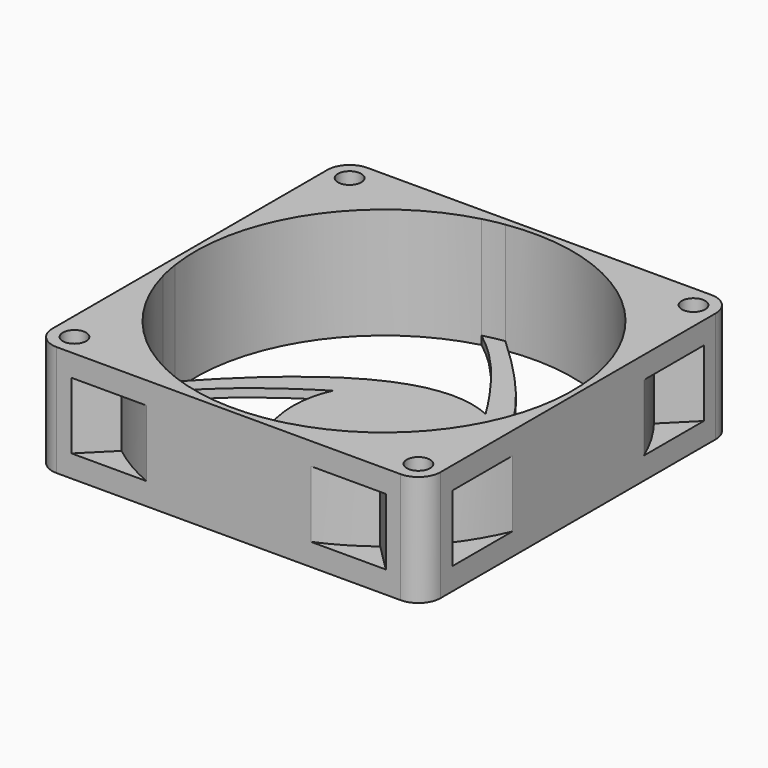
from build123d import *

# Parameters (mm, degrees)
SKETCH030_W           = 70
SKETCH030_H           = 70
SKETCH030_R           = 2.1
PAD019_DEPTH          = 10
POCKET014_DEPTH       = 221.9910987672
POLARPATTERN002_COUNT = 4
FILLET011_R           = 4
SKETCH032_R           = 34
POCKET018_DEPTH       = 18.5
POCKET017_DEPTH       = 6
POLARPATTERN003_COUNT = 4


with BuildPart() as part:
    # Sketch030 → Pad019 (new body, symmetric)
    with BuildSketch(Plane.XY):
        Rectangle(SKETCH030_W, SKETCH030_H)
        with Locations((-31, 31)):
            Circle(SKETCH030_R, mode=Mode.SUBTRACT)
        with Locations((31, 31)):
            Circle(SKETCH030_R, mode=Mode.SUBTRACT)
        with Locations((31, -31)):
            Circle(SKETCH030_R, mode=Mode.SUBTRACT)
        with Locations((-31, -31)):
            Circle(SKETCH030_R, mode=Mode.SUBTRACT)
    extrude(amount=PAD019_DEPTH, both=True)

    # Sketch029 (on Face10 of Pad019) → Pocket014 (cut, through all)
    with BuildSketch(Plane.XY.offset(10)):
        with BuildLine():
            ThreePointArc((-8.7274847969, 32.8607822354), (-28.4137092085, 18.6724698156), (-33.6262546007, -5.0274249403))
            add(Edge.make_bspline(
                [(6.6856437151, 14.5362363807), (-9.201321, 21.706085), (-33.6262546007, -5.0274249403)],
                knots=[0, 0, 0, 1, 1, 1], degree=2))
            add(Edge.make_bspline(
                [(6.6856437151, 14.5362363807), (-1.353872, 27.495132), (-8.7274847969, 32.8607822354)],
                knots=[0, 0, 0, 1, 1, 1], degree=2))
        make_face()
    pocket014 = extrude(amount=-POCKET014_DEPTH, mode=Mode.SUBTRACT)

    # PolarPattern002: Pocket014 ×4 about axis
    polarpattern002_axis = Axis((0, 0, 10), (0, 0, 1))
    for i in range(1, POLARPATTERN002_COUNT):
        add(pocket014.rotate(polarpattern002_axis, i * 360 / POLARPATTERN002_COUNT), mode=Mode.SUBTRACT)

    # Fillet011
    fillet011_edges = [part.edges().sort_by_distance(p)[0] for p in [
        (35, 35, 0),
        (-35, 35, 0),
        (35, -35, 0),
        (-35, -35, 0),
    ]]
    fillet(fillet011_edges, radius=FILLET011_R)

    # Sketch032 (on Face5 of Fillet011) → Pocket018 (cut)
    with BuildSketch(Plane.XY.offset(10)):
        Circle(SKETCH032_R)
    extrude(amount=-POCKET018_DEPTH, mode=Mode.SUBTRACT)

    # Sketch033 → Pocket017 (cut, symmetric)
    with BuildSketch(Plane.XY):
        with BuildLine():
            ThreePointArc((23.3238075794, 30), (0, 38), (-23.3238075794, 30))
            Line((-23.3238075794, 30), (-29, 35.6761924206))
            Line((-29, 35.6761924206), (-29, 47.6761924206))
            Line((-29, 47.6761924206), (29, 47.6761924206))
            Line((29, 47.6761924206), (29, 35.6761924206))
            Line((29, 35.6761924206), (23.3238075794, 30))
        make_face()
    pocket017 = extrude(amount=POCKET017_DEPTH, both=True, mode=Mode.SUBTRACT)

    # PolarPattern003: Pocket017 ×4 about axis
    polarpattern003_axis = Axis((0, 0, 0), (0, 0, 1))
    for i in range(1, POLARPATTERN003_COUNT):
        add(pocket017.rotate(polarpattern003_axis, i * 360 / POLARPATTERN003_COUNT), mode=Mode.SUBTRACT)


with BuildPart() as part_1:
    # Body013 placement: moved
    add(part.part.moved(Location((0, -208, 94))))


solid = part_1.part
